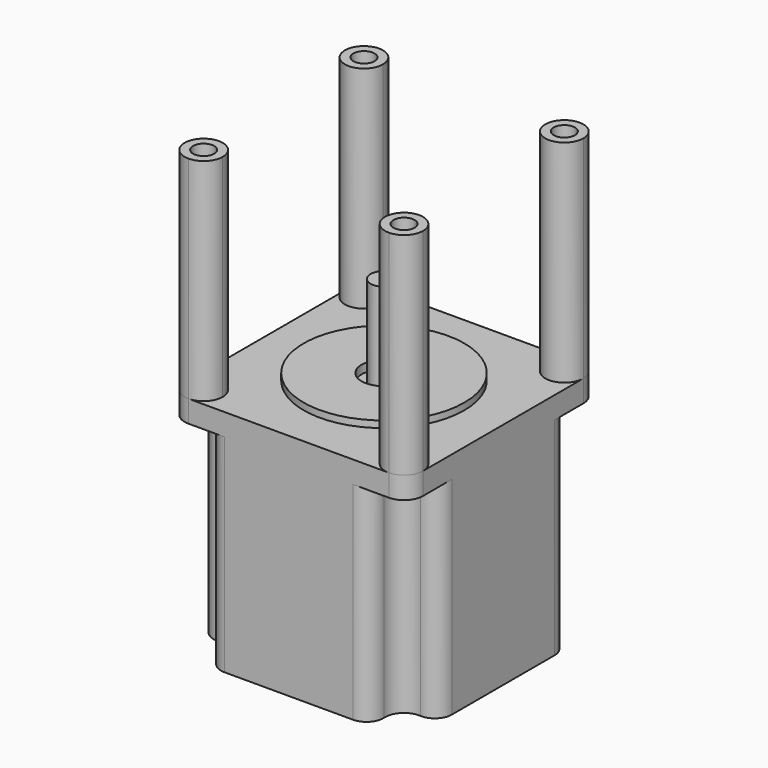
from build123d import *

# Parameters (mm, degrees)
F0_R      = 2.5
F1_DEPTH  = 5.2
F3_DEPTH  = 49
F4_R      = 19
F5_DEPTH  = 1.6
F6_R      = 5.3
F8_DEPTH  = 2
F9_R      = 3.15
F10_DEPTH = 21.6
F7_R      = 5.3
F11_DEPTH = 2
F12_R     = 2.5
F13_DEPTH = 50


with BuildPart() as f1:
    # F0 (on Top) → F1 (new body)
    with BuildSketch(Plane.XY):
        with BuildLine():
            Line((23.7, 28.2), (-23.7, 28.2))
            ThreePointArc((-23.7, 28.2), (-26.8819805153, 26.8819805153), (-28.2, 23.7))
            Line((-28.2, 23.7), (-28.2, -23.7))
            ThreePointArc((-28.2, -23.7), (-26.8819805153, -26.8819805153), (-23.7, -28.2))
            Line((-23.7, -28.2), (23.7, -28.2))
            ThreePointArc((23.7, -28.2), (26.8819805153, -26.8819805153), (28.2, -23.7))
            Line((28.2, -23.7), (28.2, 23.7))
            ThreePointArc((28.2, 23.7), (26.8819805153, 26.8819805153), (23.7, 28.2))
        make_face()
        with Locations((-23.7, -23.7)):
            Circle(F0_R, mode=Mode.SUBTRACT)
        with Locations((23.7, -23.7)):
            Circle(F0_R, mode=Mode.SUBTRACT)
        with Locations((-23.7, 23.7)):
            Circle(F0_R, mode=Mode.SUBTRACT)
        with Locations((23.7, 23.7)):
            Circle(F0_R, mode=Mode.SUBTRACT)
    extrude(amount=F1_DEPTH)

    # F2 (on face) → F3 (join)
    with BuildSketch(Plane(origin=(0, 0, 0), x_dir=(1, 0, 0), z_dir=(0, 0, -1))):
        with BuildLine():
            ThreePointArc((-19.2077922136, -23.9647058824), (-18.1251461262, -26.9439773623), (-15.2147186258, -28.2))
            Line((-15.2147186258, -28.2), (15.2147186258, -28.2))
            ThreePointArc((15.2147186258, -28.2), (18.1251461262, -26.9439773623), (19.2077922136, -23.9647058824))
            ThreePointArc((19.2077922136, -23.9647058824), (20.5180194847, -20.5180194847), (23.9647058824, -19.2077922136))
            ThreePointArc((23.9647058824, -19.2077922136), (26.9439773623, -18.1251461262), (28.2, -15.2147186258))
            Line((28.2, -15.2147186258), (28.2, 15.2147186258))
            ThreePointArc((28.2, 15.2147186258), (26.9439773623, 18.1251461262), (23.9647058824, 19.2077922136))
            ThreePointArc((23.9647058824, 19.2077922136), (20.5180194847, 20.5180194847), (19.2077922136, 23.9647058824))
            ThreePointArc((19.2077922136, 23.9647058824), (18.1251461262, 26.9439773623), (15.2147186258, 28.2))
            Line((15.2147186258, 28.2), (-15.2147186258, 28.2))
            ThreePointArc((-15.2147186258, 28.2), (-18.1251461262, 26.9439773623), (-19.2077922136, 23.9647058824))
            ThreePointArc((-19.2077922136, 23.9647058824), (-20.5180194847, 20.5180194847), (-23.9647058824, 19.2077922136))
            ThreePointArc((-23.9647058824, 19.2077922136), (-26.9439773623, 18.1251461262), (-28.2, 15.2147186258))
            Line((-28.2, 15.2147186258), (-28.2, -15.2147186258))
            ThreePointArc((-28.2, -15.2147186258), (-26.9439773623, -18.1251461262), (-23.9647058824, -19.2077922136))
            ThreePointArc((-23.9647058824, -19.2077922136), (-20.5180194847, -20.5180194847), (-19.2077922136, -23.9647058824))
        make_face()
    extrude(amount=F3_DEPTH)

    # F4 (on face) → F5 (join)
    with BuildSketch(Plane.XY.offset(5.2)):
        Circle(F4_R)
    extrude(amount=F5_DEPTH)

    # F6 (on face) → F8 (cut)
    with BuildSketch(Plane.XY.offset(6.8)):
        Circle(F6_R)
    extrude(amount=-F8_DEPTH, mode=Mode.SUBTRACT)

    # F7 (on face) → F11 (cut)
    with BuildSketch(Plane(origin=(0, 0, -49), x_dir=(1, 0, 0), z_dir=(0, 0, -1))):
        Circle(F7_R)
    extrude(amount=-F11_DEPTH, mode=Mode.SUBTRACT)


with BuildPart() as f10:
    # F9 (on face) → F10 (new body)
    with BuildSketch(Plane.XY.offset(4.8)):
        Circle(F9_R)
    extrude(amount=F10_DEPTH)


with BuildPart() as f13:
    # F12 (on face) → F13 (new body)
    with BuildSketch(Plane.XY.offset(5.2)):
        with BuildLine():
            ThreePointArc((23.7, -28.2), (26.8819805153, -26.8819805153), (28.2, -23.7))
            ThreePointArc((28.2, -23.7), (20.5180194847, -20.5180194847), (23.7, -28.2))
        make_face()
        with Locations((23.7, -23.7)):
            Circle(F12_R, mode=Mode.SUBTRACT)
    extrude(amount=F13_DEPTH)


with BuildPart() as f13b:
    # F12 (on face) → F13, piece 2 (new body)
    with BuildSketch(Plane.XY.offset(5.2)):
        with BuildLine():
            ThreePointArc((-19.2, -23.7), (-23.7, -19.2), (-28.2, -23.7))
            ThreePointArc((-28.2, -23.7), (-26.8819805153, -26.8819805153), (-23.7, -28.2))
            ThreePointArc((-23.7, -28.2), (-20.5180194847, -26.8819805153), (-19.2, -23.7))
        make_face()
        with Locations((-23.7, -23.7)):
            Circle(F12_R, mode=Mode.SUBTRACT)
    extrude(amount=F13_DEPTH)


with BuildPart() as f13c:
    # F12 (on face) → F13, piece 3 (new body)
    with BuildSketch(Plane.XY.offset(5.2)):
        with BuildLine():
            ThreePointArc((-28.2, 23.7), (-23.7, 19.2), (-19.2, 23.7))
            ThreePointArc((-19.2, 23.7), (-20.5180194847, 26.8819805153), (-23.7, 28.2))
            ThreePointArc((-23.7, 28.2), (-26.8819805153, 26.8819805153), (-28.2, 23.7))
        make_face()
        with Locations((-23.7, 23.7)):
            Circle(F12_R, mode=Mode.SUBTRACT)
    extrude(amount=F13_DEPTH)


with BuildPart() as f13d:
    # F12 (on face) → F13, piece 4 (new body)
    with BuildSketch(Plane.XY.offset(5.2)):
        with BuildLine():
            ThreePointArc((28.2, 23.7), (26.8819805153, 26.8819805153), (23.7, 28.2))
            ThreePointArc((23.7, 28.2), (20.5180194847, 20.5180194847), (28.2, 23.7))
        make_face()
        with Locations((23.7, 23.7)):
            Circle(F12_R, mode=Mode.SUBTRACT)
    extrude(amount=F13_DEPTH)


solid = Compound([f1.part, f10.part, f13.part, f13b.part, f13c.part, f13d.part])
